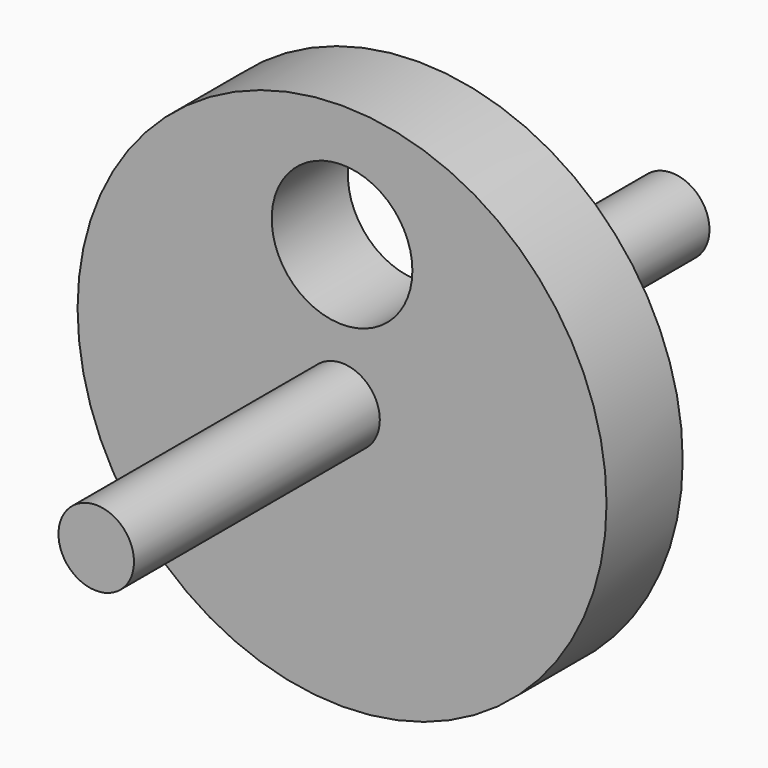
from build123d import *

# Parameters (mm, degrees)
F0_R          = 70.553851
F1_DEPTH      = 25.4
F2_R          = 18.763513
F3_DEPTH      = 61.607625
F4_R          = 10.074339
F5_DEPTH      = 81.966516
F5_DEPTH_BACK = 109.91749


with BuildPart() as f1:
    # F0 (on Front) → F1 (new body)
    with BuildSketch(Plane.XZ):
        Circle(F0_R)
    extrude(amount=F1_DEPTH)

    # F2 (on face) → F3 (cut)
    with BuildSketch(Plane.XZ.offset(25.4)):
        with Locations((0, 37.898846)):
            Circle(F2_R)
    extrude(amount=-F3_DEPTH, mode=Mode.SUBTRACT)

    # F4 (on face) → F5 (join, two sides)
    with BuildSketch(Plane.XZ.offset(25.4)) as f5_sk:
        Circle(F4_R)
    extrude(amount=F5_DEPTH)
    extrude(f5_sk.sketch, amount=-F5_DEPTH_BACK)


solid = f1.part
